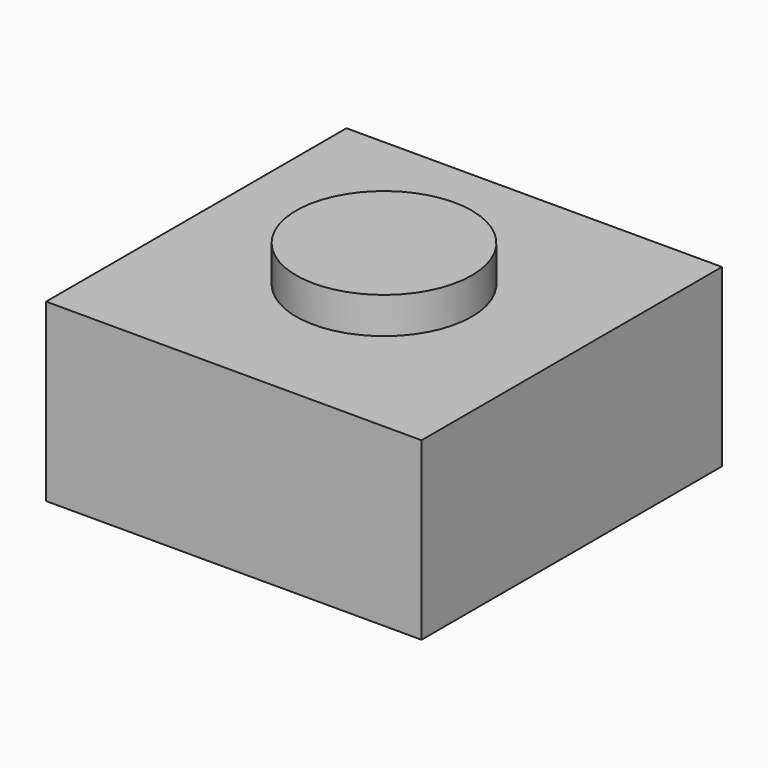
from build123d import *

# Parameters (mm, degrees)
F0_W     = 6.2
F0_H     = 6.2
F1_DEPTH = 2.9
F2_R     = 1.45
F3_DEPTH = 0.6


with BuildPart() as f1:
    # F0 (on Top) → F1 (new body)
    with BuildSketch(Plane.XY):
        Rectangle(F0_W, F0_H)
    extrude(amount=F1_DEPTH)


with BuildPart() as f3:
    # F2 (on face) → F3 (new body)
    with BuildSketch(Plane.XY.offset(2.9)):
        Circle(F2_R)
    extrude(amount=F3_DEPTH)


solid = Compound([f1.part, f3.part])
